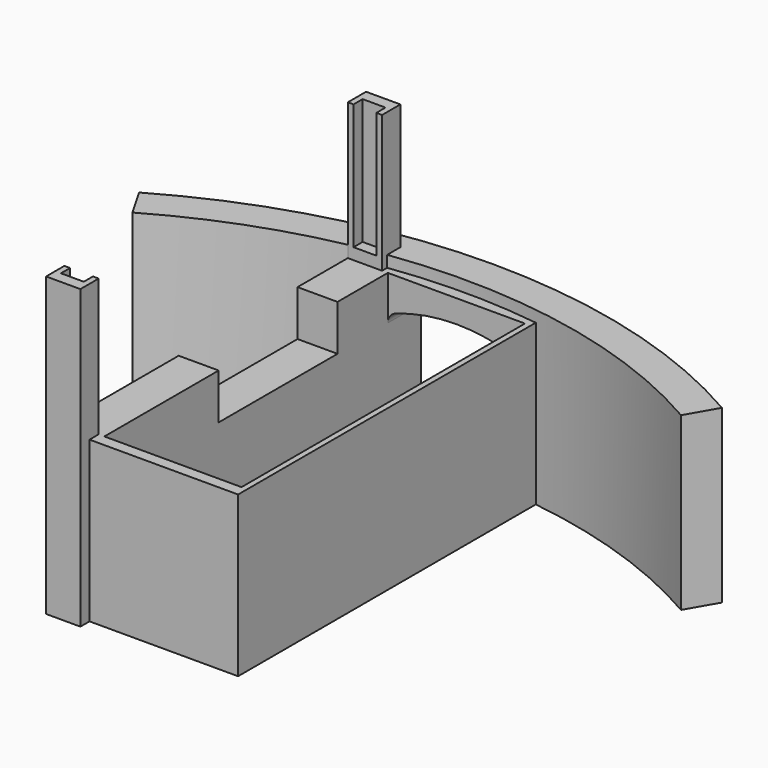
from build123d import *

# Parameters (mm, degrees)
BOX005_W                    = 5
BOX005_H                    = 13
BOX005_DEPTH                = 4
BOX004_W                    = 3
BOX004_H                    = 31
BOX004_DEPTH                = 14
BOX003_W                    = 2
BOX003_H                    = 33
BOX003_DEPTH                = 11.2
BOX002_W                    = 3
BOX002_H                    = 35
BOX002_DEPTH                = 26
EXTRUDE_DEPTH               = 5
EXTRUDE001_DEPTH            = 5
THICKNESS_T                 = 1
BOX_W                       = 12
BOX_H                       = 31
BOX_DEPTH                   = 15
BOX001_W                    = 13
BOX001_H                    = 34
BOX001_DEPTH                = 14
CYLINDER001_W               = 48
CYLINDER001_H               = 15
CYLINDER001_ANGLE           = 60
CYLINDER001_PLACEMENT_ANGLE = 60
CYLINDER_W                  = 51
CYLINDER_H                  = 15
CYLINDER_ANGLE              = 60
CYLINDER_PLACEMENT_ANGLE    = 60


with BuildPart() as servo_wall_cutaway:
    # Box005 → Box005 (new body)
    with BuildSketch(Plane(origin=(-2, 19.5, 10), x_dir=(1, 0, 0), z_dir=(0, 0, 1))):
        with Locations((2.5, 6.5)):
            Rectangle(BOX005_W, BOX005_H)
    extrude(amount=BOX005_DEPTH)


with BuildPart() as slot_wall_cutout2:
    # Box004 → Box004 (new body)
    with BuildSketch(Plane(origin=(-1, 7, 14), x_dir=(1, 0, 0), z_dir=(0, 0, 1))):
        with Locations((1.5, 15.5)):
            Rectangle(BOX004_W, BOX004_H)
    extrude(amount=BOX004_DEPTH)


with BuildPart() as slot_wall_cutout1:
    # Box003 → Box003 (new body)
    with BuildSketch(Plane(origin=(-0.5, 6, 15), x_dir=(1, 0, 0), z_dir=(0, 0, 1))):
        with Locations((1, 16.5)):
            Rectangle(BOX003_W, BOX003_H)
    extrude(amount=BOX003_DEPTH)


with BuildPart() as wall_slot_finished:
    # Box002 → Box002 (new body)
    with BuildSketch(Plane(origin=(-1, 5, 0), x_dir=(1, 0, 0), z_dir=(0, 0, 1))):
        with Locations((1.5, 17.5)):
            Rectangle(BOX002_W, BOX002_H)
    extrude(amount=BOX002_DEPTH)

    # Cut003: cut slot wall cutout1
    add(slot_wall_cutout1.part, mode=Mode.SUBTRACT)

    # Cut004: cut slot wall cutout2
    add(slot_wall_cutout2.part, mode=Mode.SUBTRACT)


with BuildPart() as extrude_body:
    with BuildSketch(Plane(origin=(8.5, 45, 6), x_dir=(1, 0, 0), z_dir=(0, 1, 0))):
        with BuildLine():
            Line((5, 4), (-5, 4))
            Line((-5, 4), (-5, -3.142136))
            ThreePointArc((-5, -3.142136), (-2.53653, -3.783978), (0, -4))
            ThreePointArc((0, -4), (2.53653, -3.783978), (5, -3.142136))
            Line((5, -3.142136), (5, 4))
        make_face()
    extrude(amount=EXTRUDE_DEPTH)


with BuildPart() as extrude001:
    with BuildSketch(Plane(origin=(8.5, 45, 6), x_dir=(1, 0, 0), z_dir=(0, 1, 0))):
        with BuildLine():
            Line((5, 4), (-5, 4))
            Line((-5, 4), (-5, -3.142136))
            ThreePointArc((-5, -3.142136), (-2.53653, -3.783978), (0, -4))
            ThreePointArc((0, -4), (2.53653, -3.783978), (5, -3.142136))
            Line((5, -3.142136), (5, 4))
        make_face()
    extrude(amount=EXTRUDE001_DEPTH)


with BuildPart() as bolt_bottle_side_opening:
    # Thickness base: copy of Extrude body
    add(extrude_body.part)

    # Thickness
    thickness_openings = [bolt_bottle_side_opening.faces().sort_by_distance(p)[0] for p in [
        (8.5, 50, 5.862901),
    ]]
    offset(amount=THICKNESS_T, openings=thickness_openings)

    # Fusion: union Extrude body, Extrude001
    add(extrude_body.part)
    add(extrude001.part)


with BuildPart() as bolt_bottle_side_opening_1:
    # Fusion placement: moved
    add(bolt_bottle_side_opening.part.moved(Location((0, -7, 1))))


with BuildPart() as pullbay:
    # Box → Box (new body)
    with BuildSketch(Plane(origin=(2.5, 7, 2), x_dir=(1, 0, 0), z_dir=(0, 0, 1))):
        with Locations((6, 15.5)):
            Rectangle(BOX_W, BOX_H)
    extrude(amount=BOX_DEPTH)


with BuildPart() as cut_bay_from_case:
    # Box001 → Box001 (new body)
    with BuildSketch(Plane(origin=(2, 6, 0), x_dir=(1, 0, 0), z_dir=(0, 0, 1))):
        with Locations((6.5, 17)):
            Rectangle(BOX001_W, BOX001_H)
    extrude(amount=BOX001_DEPTH)

    # Cut001: cut pullBay
    add(pullbay.part, mode=Mode.SUBTRACT)


with BuildPart() as bottle_wall001:
    # Cylinder001 → Cylinder001 (revolve)
    with BuildSketch(Plane.XZ):
        with Locations((24, 7.5)):
            Rectangle(CYLINDER001_W, CYLINDER001_H)
    revolve(axis=Axis((0, 0, 0), (0, 0, 1)), revolution_arc=CYLINDER001_ANGLE)


with BuildPart() as bottle_wall001_1:
    # Cylinder001 placement: moved
    add(bottle_wall001.part.moved(Location((8.5, -7, 0))).rotate(Axis((8.5, -7, 0), (0, 0, 1)), CYLINDER001_PLACEMENT_ANGLE))


with BuildPart() as cut005:
    # Cylinder → Cylinder (revolve)
    with BuildSketch(Plane.XZ):
        with Locations((25.5, 7.5)):
            Rectangle(CYLINDER_W, CYLINDER_H)
    revolve(axis=Axis((0, 0, 0), (0, 0, 1)), revolution_arc=CYLINDER_ANGLE)


with BuildPart() as cut005_1:
    # Cylinder placement: moved
    add(cut005.part.moved(Location((8.5, -7, 0))).rotate(Axis((8.5, -7, 0), (0, 0, 1)), CYLINDER_PLACEMENT_ANGLE))

    # Cut: cut bottle_wall001
    add(bottle_wall001_1.part, mode=Mode.SUBTRACT)


with BuildPart() as cut005_2:
    # Cut placement: moved
    add(cut005_1.part.moved(Location((0, -2, 0))))

    # Fusion001: union cut bay from case
    add(cut_bay_from_case.part)

    # Cut002: cut bolt_bottle_side_opening
    add(bolt_bottle_side_opening_1.part, mode=Mode.SUBTRACT)

    # Fusion002: union wall slot finished
    add(wall_slot_finished.part)

    # Cut005: cut servo wall cutaway
    add(servo_wall_cutaway.part, mode=Mode.SUBTRACT)


solid = cut005_2.part
